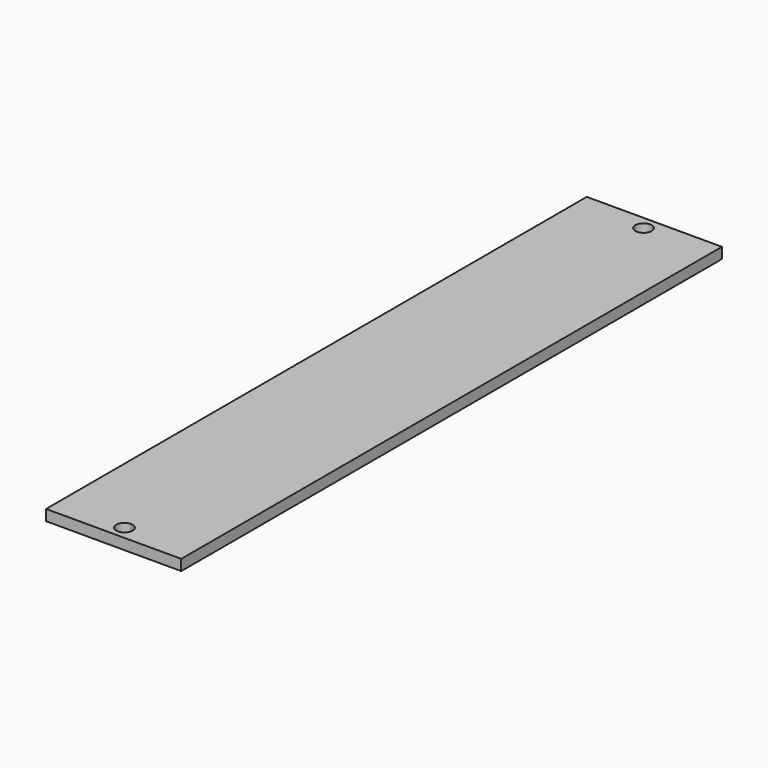
from build123d import *

# Parameters (mm, degrees)
F0_R     = 3
F1_DEPTH = 4


with BuildPart() as f1:
    # F0 (on Top) → F1 (new body)
    with BuildSketch(Plane.XY):
        Polygon((25, 125), (-25, 125), (-25, -125), (0, -125), (25, -125), align=None)
        with BuildLine():
            ThreePointArc((3, -120), (2.12132, -122.12132), (0, -123))
            ThreePointArc((0, -123), (-3, -120), (0, -117))
            ThreePointArc((0, -117), (2.12132, -117.87868), (3, -120))
        make_face(mode=Mode.SUBTRACT)
        with Locations((0, 120)):
            Circle(F0_R, mode=Mode.SUBTRACT)
    extrude(amount=F1_DEPTH)


solid = f1.part
